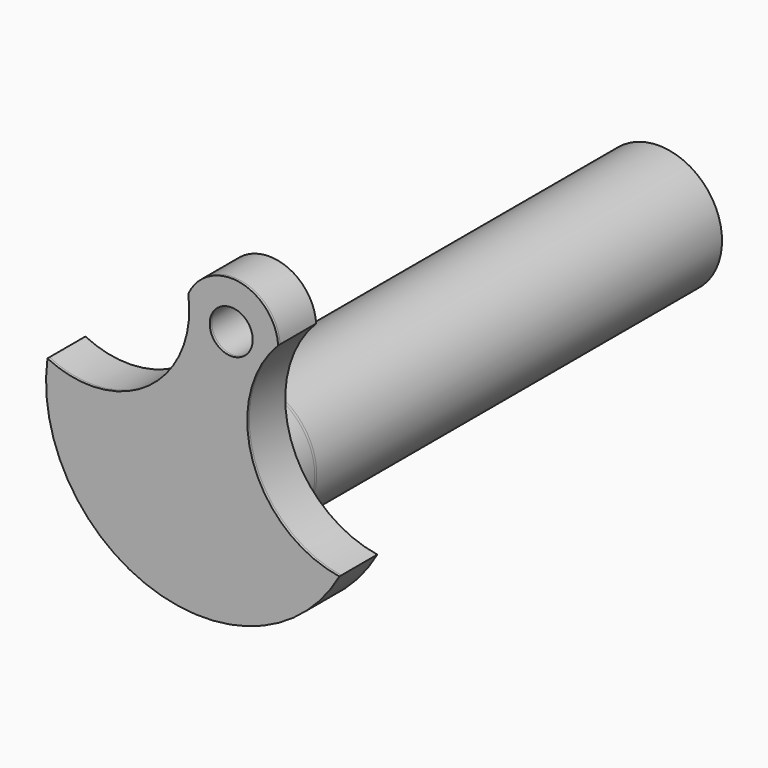
from build123d import *

# Parameters (mm, degrees)
F0_R      = 1.7245608891
F1_DEPTH  = 3.81
F2_R      = 5.0827847808
F3_DEPTH  = 1.8796
F5_DEPTH  = 1.8034
F5_FACE_R = 5.0827847808
F4_R      = 4.0761496426
F1_FACE_R = 1.7245608891
F6_DEPTH  = 0.2032
F7_DEPTH  = 40.64


with BuildPart() as f1:
    # F0 (on Front) → F1 (new body)
    with BuildSketch(Plane.XZ):
        with BuildLine():
            ThreePointArc((-40.6846019076, 33.996454664), (-43.8586035919, 26.4801119862), (-51.985972327, 25.7620789885))
            ThreePointArc((-51.985972327, 25.7620789885), (-43.4988667945, 12.1772585573), (-28.5669643091, 17.975240502))
            ThreePointArc((-28.5669643091, 17.975240502), (-35.5078844362, 23.842234183), (-33.4709389841, 32.6993691762))
            ThreePointArc((-33.4709389841, 32.6993691762), (-36.5719585653, 36.1609542707), (-40.6846019076, 33.996454664))
        make_face()
        with Locations((-37.240639329, 32.4421264231)):
            Circle(F0_R, mode=Mode.SUBTRACT)
    extrude(amount=F1_DEPTH)

    # F2 (on Front) → F3 (join)
    with BuildSketch(Plane.XZ):
        with Locations((-41.6127927601, 19.4445531815)):
            Circle(F2_R)
    extrude(amount=-F3_DEPTH)

    # F5 (add): a face of the model
    f5_faces = [f1.faces().sort_by_distance(p)[0] for p in [
        (-41.6127927601, 1.8796, 19.4445531815),
    ]]
    extrude(f5_faces, amount=F5_DEPTH)

    # F5_face (on face) + F4 (on Front) + F1_face (on face) → F6 (join)
    with BuildSketch(Plane(origin=(-41.6127927601, 3.683, 19.4445531815), x_dir=(-1, 0, 0), z_dir=(0, 1, 0))):
        Circle(F5_FACE_R)
    with BuildSketch(Plane.XZ):
        with Locations((-41.713938117, 19.8042206466)):
            Circle(F4_R)
    with BuildSketch(Plane(origin=(-40.7069598519, -3.81, 21.1441009412), x_dir=(1, 0, 0), z_dir=(0, -1, 0))):
        with BuildLine():
            ThreePointArc((7.2360208677, 11.555268235), (4.1350012866, 15.0168533295), (0.0223579443, 12.8523537228))
            ThreePointArc((0.0223579443, 12.8523537228), (-3.15164374, 5.336011045), (-11.2790124751, 4.6179780473))
            ThreePointArc((-11.2790124751, 4.6179780473), (-2.7919069426, -8.9668423839), (12.1399955428, -3.1688604391))
            ThreePointArc((12.1399955428, -3.1688604391), (5.1990754157, 2.6981332418), (7.2360208677, 11.555268235))
        make_face()
        with Locations((3.4663205229, 11.2980254819)):
            Circle(F1_FACE_R, mode=Mode.SUBTRACT)
    extrude(amount=F6_DEPTH, dir=(0, 1, 0))

    # F7 (add): a face of the model
    f7_faces = [f1.faces().sort_by_distance(p)[0] for p in [
        (-41.6127927601, 3.8862, 19.4445531815),
    ]]
    extrude(f7_faces, amount=F7_DEPTH)


solid = f1.part
